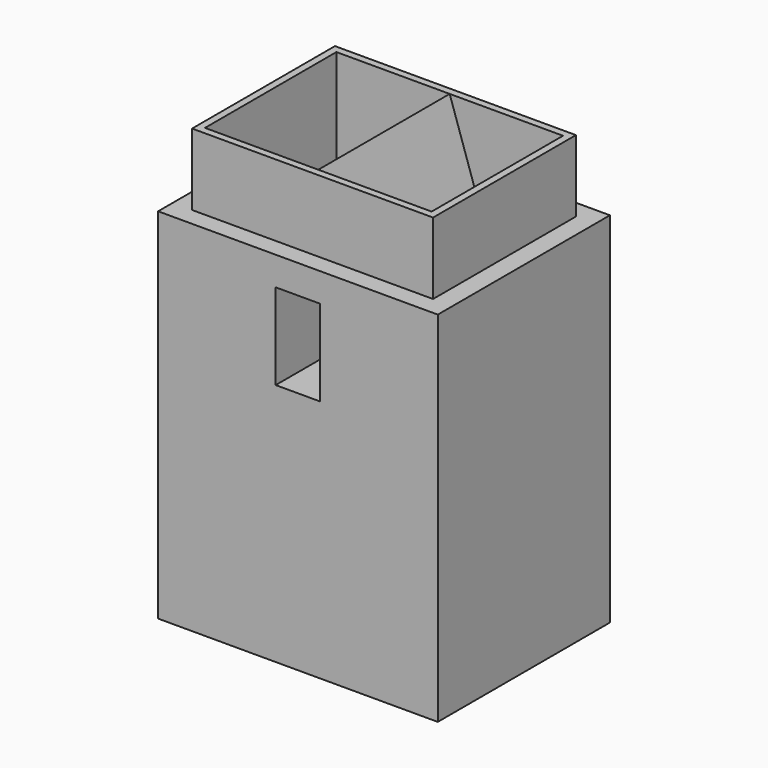
from build123d import *

# Parameters (mm, degrees)
F0_W      = 19.5
F0_H      = 30
F1_DEPTH  = 15
F2_W      = 15.8
F2_H      = 11.45
F3_DEPTH  = 30
F5_DEPTH  = 15
F6_W      = 3.1
F6_H      = 6
F7_DEPTH  = 15
F8_R      = 5
F9_R      = 1
F10_W     = 19.5
F10_H     = 15
F10_W_2   = 16.8
F10_H_2   = 12.45
F11_DEPTH = 5
F12_W     = 16.8
F12_H     = 12.45
F13_DEPTH = 10


with BuildPart() as f1:
    # F0 (on Front) → F1 (new body)
    with BuildSketch(Plane.XZ):
        Rectangle(F0_W, F0_H)
    extrude(amount=F1_DEPTH)

    # F2 (on face) → F3 (cut, through all)
    with BuildSketch(Plane.XY.offset(15)):
        with Locations((0, -7.5)):
            Rectangle(F2_W, F2_H)
    extrude(amount=-F3_DEPTH, mode=Mode.SUBTRACT)

    # F4 (on face) → F5 (join, through all)
    with BuildSketch(Plane.XZ.offset(15)):
        Polygon((-2, 1), (2, 1), (2, 9), (0, 15), (-2, 9), align=None)
    extrude(amount=-F5_DEPTH)

    # F6 (on face) → F7 (cut, through all)
    with BuildSketch(Plane.XZ.offset(15)):
        with Locations((0, 5)):
            Rectangle(F6_W, F6_H)
    extrude(amount=-F7_DEPTH, mode=Mode.SUBTRACT)

    # F8
    f8_edges = [f1.edges().sort_by_distance(p)[0] for p in [
        (-2, -7.5, 9),
        (2, -7.5, 9),
    ]]
    fillet(f8_edges, radius=F8_R)

    # F9
    f9_edges = [f1.edges().sort_by_distance(p)[0] for p in [
        (-2, -7.5, 1),
        (2, -7.5, 1),
    ]]
    fillet(f9_edges, radius=F9_R)

    # F10 (on face) → F11 (cut)
    with BuildSketch(Plane.XY.offset(15)):
        with Locations((0, -7.5)):
            Rectangle(F10_W, F10_H)
        with Locations((0, -7.5)):
            Rectangle(F10_W_2, F10_H_2, mode=Mode.SUBTRACT)
    extrude(amount=-F11_DEPTH, mode=Mode.SUBTRACT)

    # F12 (on face) → F13 (cut)
    with BuildSketch(Plane(origin=(0, 0, -15), x_dir=(1, 0, 0), z_dir=(0, 0, -1))):
        with Locations((0, 7.5)):
            Rectangle(F12_W, F12_H)
    extrude(amount=-F13_DEPTH, mode=Mode.SUBTRACT)


solid = f1.part
